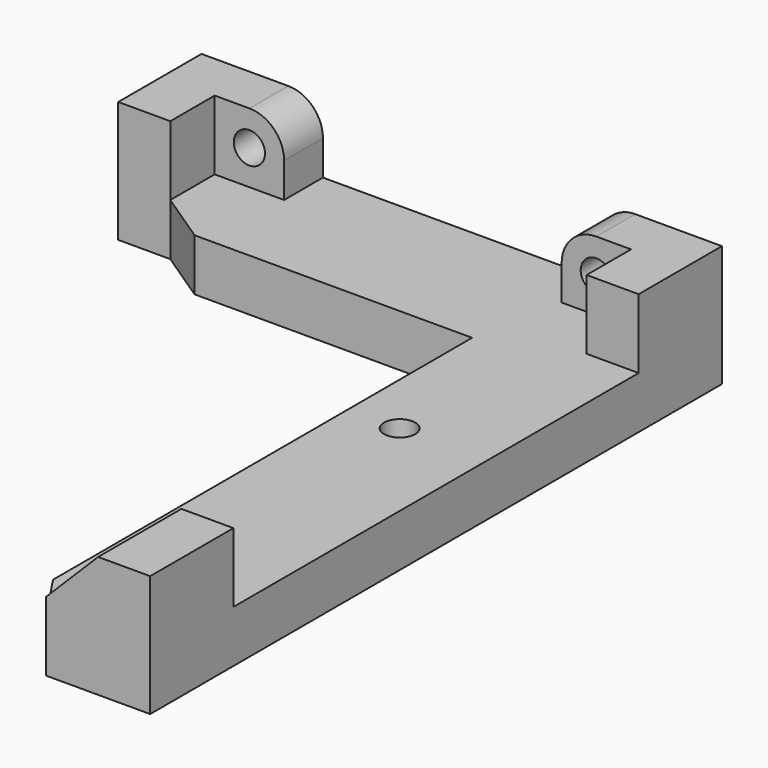
from build123d import *

# Parameters (mm, degrees)
F0_W     = 7.5
F0_H     = 73
F0_R     = 2.25
F1_DEPTH = 7.5
F2_DEPTH = 10
F3_R     = 2.25
F4_DEPTH = 75
F5_SIZE  = 7.5
F6_R     = 5


with BuildPart() as f1:
    # F0 (on Top) → F1 (new body)
    with BuildSketch(Plane.XY):
        with Locations((33.75, 0)):
            Rectangle(F0_W, F0_H)
        Polygon((37.5, -51.5), (37.5, -36.5), (30, -36.5), (30, -44), (22.5, -44), (22.5, -51.5), align=None)
        Polygon((30, 44.5), (20, 44.5), (17.5, 44.5), (17.5, 31.5), (17.5, -44.014243), (22.5, -51.5), (22.5, -44), (30, -44), (30, -36.5), (30, 36.5), align=None)
        with Locations((24.92, -39.08)):
            Circle(F0_R, mode=Mode.SUBTRACT)
        with Locations((24.92, 9.17)):
            Circle(F0_R, mode=Mode.SUBTRACT)
        Polygon((37.5, 51.5), (20, 51.5), (20, 44.5), (30, 44.5), (30, 36.5), (37.5, 36.5), align=None)
        Polygon((20, 51.5), (-20, 51.5), (-20, 44.5), (17.5, 44.5), (20, 44.5), align=None)
        Polygon((-20, 51.5), (-37.5, 51.5), (-37.5, 36.5), (-30, 36.5), (-30, 44.5), (-20, 44.5), align=None)
        Polygon((17.5, 44.5), (-20, 44.5), (-30, 44.5), (-30, 36.5), (-22.5, 31.5), (17.5, 31.5), align=None)
    extrude(amount=-F1_DEPTH)

    # F0 (on Top) → F2 (join)
    with BuildSketch(Plane.XY):
        Polygon((37.5, 51.5), (20, 51.5), (20, 44.5), (30, 44.5), (30, 36.5), (37.5, 36.5), align=None)
        Polygon((37.5, -51.5), (37.5, -36.5), (30, -36.5), (30, -44), (22.5, -44), (22.5, -51.5), align=None)
        Polygon((-20, 51.5), (-37.5, 51.5), (-37.5, 36.5), (-30, 36.5), (-30, 44.5), (-20, 44.5), align=None)
    extrude(amount=F2_DEPTH)

    # F3 (on Front) → F4 (cut)
    with BuildSketch(Plane.XZ):
        with Locations((25, 5)):
            Circle(F3_R)
        with Locations((-25, 5)):
            Circle(F3_R)
    extrude(amount=-F4_DEPTH, mode=Mode.SUBTRACT)

    # F5
    f5_edges = [f1.edges().sort_by_distance(p)[0] for p in [
        (22.5, -47.75, 10),
    ]]
    chamfer(f5_edges, length=F5_SIZE)

    # F6
    f6_edges = [f1.edges().sort_by_distance(p)[0] for p in [
        (-20, 48, 10),
        (20, 48, 10),
    ]]
    fillet(f6_edges, radius=F6_R)


solid = f1.part
